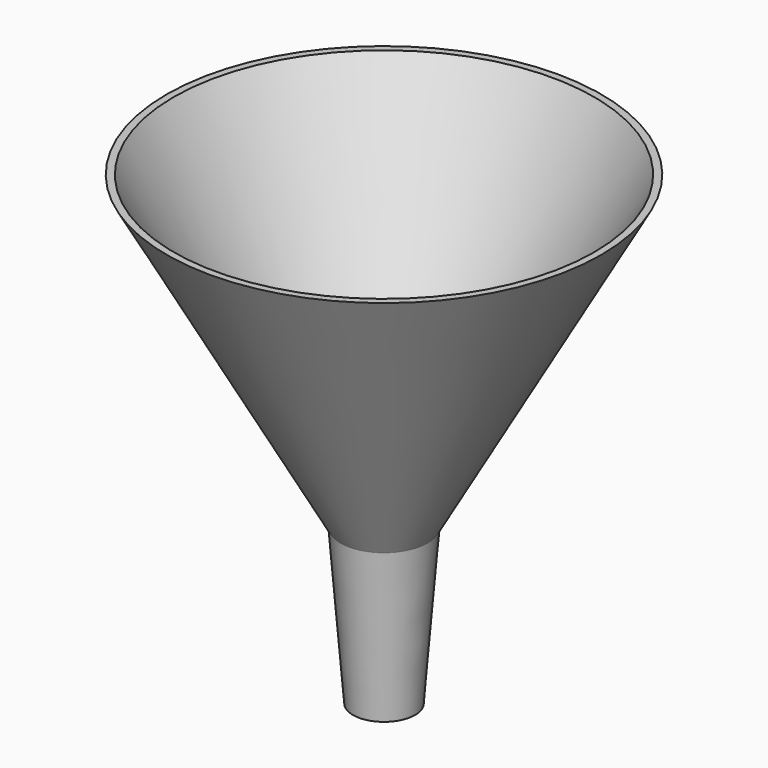
from build123d import *

# Parameters (mm, degrees)
F2_T = -1


with BuildPart() as f1:
    # F0 (on Front) → F1 (revolve)
    with BuildSketch(Plane.XZ):
        Polygon((0, 50), (0, -25), (5, -25), (7, 0), (35, 50), align=None)
    revolve(axis=Axis((0, 0, 12.5), (0, 0, -1)))

    # F2
    f2_openings = [f1.faces().sort_by_distance(p)[0] for p in [
        (0, 0, 50),
        (0, 0, -25),
    ]]
    offset(amount=F2_T, openings=f2_openings, kind=Kind.INTERSECTION)


solid = f1.part
